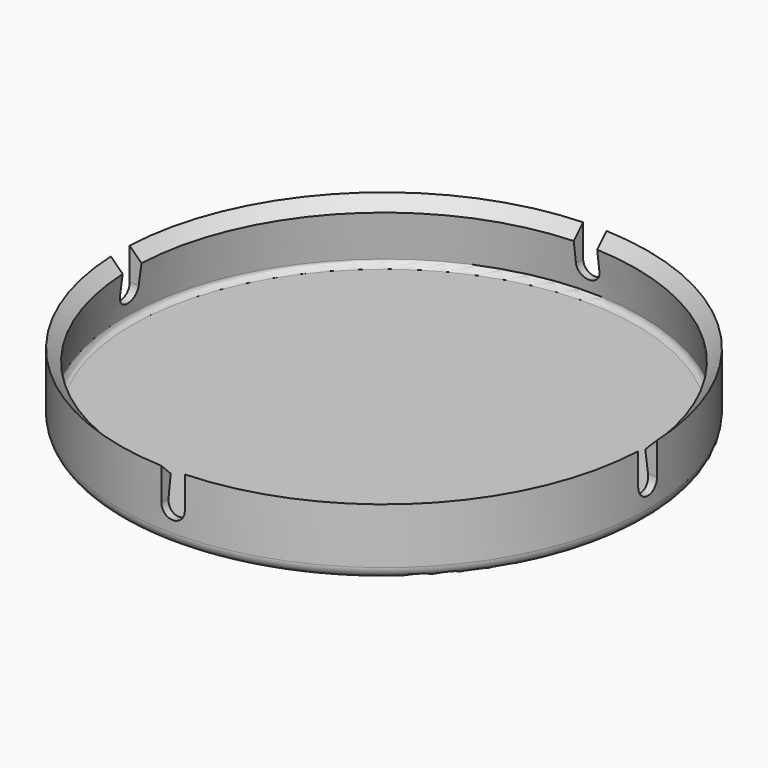
from build123d import *

# Parameters (mm, degrees)
F3_DEPTH = 50
F5_DEPTH = 50


with BuildPart() as f1:
    # F0 (on Front) → F1 (revolve)
    with BuildSketch(Plane.XZ):
        with BuildLine():
            Line((-43, 9.5), (-45, 11.5))
            Line((-45, 11.5), (-45, 2))
            ThreePointArc((-45, 2), (-44.414214, 0.585786), (-43, 0))
            Line((-43, 0), (0, 0))
            Line((0, 0), (0, 1))
            Line((0, 1), (-43, 1))
            ThreePointArc((-43, 1), (-43.707107, 1.292893), (-44, 2))
            Line((-44, 2), (-43, 9.5))
        make_face()
    revolve(axis=Axis((0, 0, 0.5), (0, 0, -1)))

    # F2 (on Front) → F3 (cut, symmetric)
    with BuildSketch(Plane.XZ):
        with BuildLine():
            Line((-2, 11.5), (-2, 6))
            ThreePointArc((-2, 6), (0, 4), (2, 6))
            Line((2, 6), (2, 11.5))
            Line((2, 11.5), (-2, 11.5))
        make_face()
    extrude(amount=F3_DEPTH, both=True, mode=Mode.SUBTRACT)

    # F4 (on Right) → F5 (cut, symmetric)
    with BuildSketch(Plane.YZ):
        with BuildLine():
            Line((-2, 11.5), (-2, 6))
            ThreePointArc((-2, 6), (0, 4), (2, 6))
            Line((2, 6), (2, 11.5))
            Line((2, 11.5), (-2, 11.5))
        make_face()
    extrude(amount=F5_DEPTH, both=True, mode=Mode.SUBTRACT)


solid = f1.part
